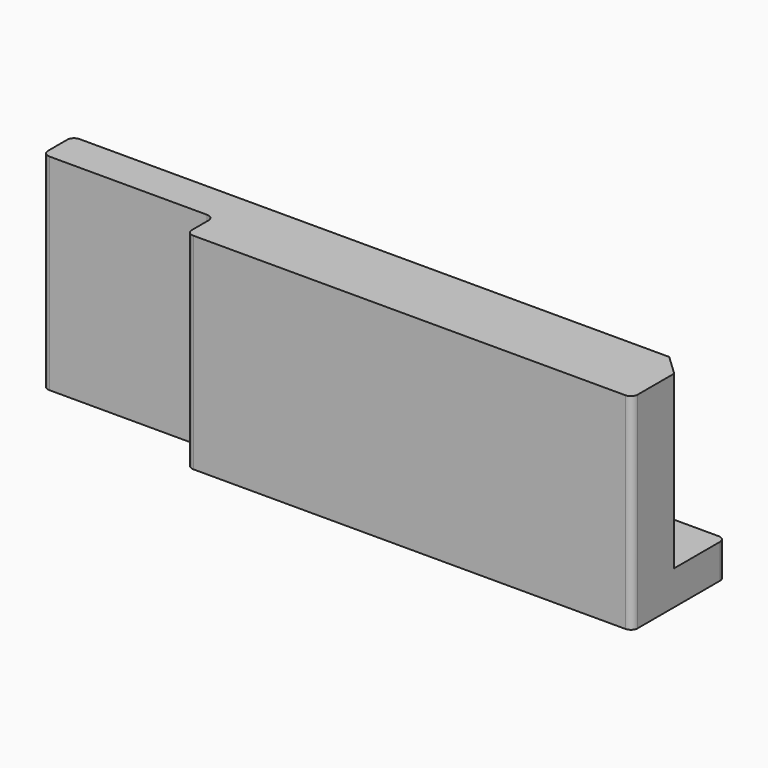
from build123d import *

# Parameters (mm, degrees)
F1_DEPTH = 25
F3_DEPTH = 5


with BuildPart() as f1:
    # F0 (on Top) → F1 (new body)
    with BuildSketch(Plane.XY):
        with BuildLine():
            ThreePointArc((-32.5, -4.25), (-32.207107, -4.957107), (-31.5, -5.25))
            Line((-31.5, -5.25), (31.5, -5.25))
            ThreePointArc((31.5, -5.25), (32.207107, -4.957107), (32.5, -4.25))
            Line((32.5, -4.25), (32.5, 2.396881))
            Line((32.5, 2.396881), (29.495588, 5.25))
            Line((29.495588, 5.25), (-31.5, 5.25))
            Line((-31.5, 5.25), (-32.5, 5.25))
            Line((-32.5, 5.25), (-56.5, 5.25))
            ThreePointArc((-56.5, 5.25), (-57.207107, 4.957107), (-57.5, 4.25))
            Line((-57.5, 4.25), (-57.5, 0.75))
            ThreePointArc((-57.5, 0.75), (-57.207107, 0.042893), (-56.5, -0.25))
            Line((-56.5, -0.25), (-33.5, -0.25))
            ThreePointArc((-33.5, -0.25), (-32.792893, -0.542893), (-32.5, -1.25))
            Line((-32.5, -1.25), (-32.5, -4.25))
        make_face()
    extrude(amount=F1_DEPTH)

    # F2 (on Top) → F3 (join)
    with BuildSketch(Plane.XY):
        with BuildLine():
            ThreePointArc((-32.5, -4.25), (-32.207107, -4.957107), (-31.5, -5.25))
            Line((-31.5, -5.25), (31.5, -5.25))
            ThreePointArc((31.5, -5.25), (32.207107, -4.957107), (32.5, -4.25))
            Line((32.5, -4.25), (32.5, 10.75))
            ThreePointArc((32.5, 10.75), (32.207107, 11.457107), (31.5, 11.75))
            Line((31.5, 11.75), (-31.5, 11.75))
            Line((-31.5, 11.75), (-32.5, 11.75))
            Line((-32.5, 11.75), (-56.5, 11.75))
            ThreePointArc((-56.5, 11.75), (-57.207107, 11.457107), (-57.5, 10.75))
            Line((-57.5, 10.75), (-57.5, 0.75))
            ThreePointArc((-57.5, 0.75), (-57.207107, 0.042893), (-56.5, -0.25))
            Line((-56.5, -0.25), (-33.5, -0.25))
            ThreePointArc((-33.5, -0.25), (-32.792893, -0.542893), (-32.5, -1.25))
            Line((-32.5, -1.25), (-32.5, -4.25))
        make_face()
    extrude(amount=-F3_DEPTH)


solid = f1.part
